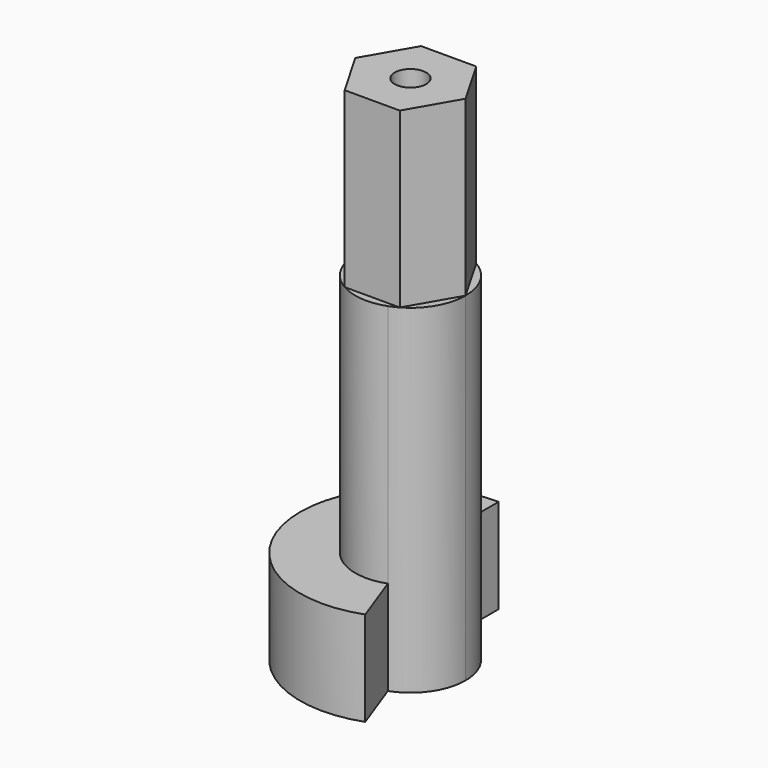
from build123d import *

# Parameters (mm, degrees)
F1_DEPTH = 12
F2_DEPTH = 43
F4_DEPTH = 22
F5_R     = 2
F6_DEPTH = 15
F7_DEPTH = 15


with BuildPart() as f1:
    # F0 (on Top) → F1 (new body)
    with BuildSketch(Plane.XY):
        with BuildLine():
            ThreePointArc((2.394141, -6.577848), (5.734064, -4.015035), (7, 0))
            ThreePointArc((7, 0), (4.949747, 4.949747), (0, 7))
            Line((0, 7), (0, 5.6))
            ThreePointArc((0, 5.6), (3.959798, 3.959798), (5.6, 0))
            ThreePointArc((5.6, 0), (4.587251, -3.212028), (1.915313, -5.262279))
            Line((1.915313, -5.262279), (2.394141, -6.577848))
        make_face()
        with BuildLine():
            ThreePointArc((2.394141, -6.577848), (-6.893654, -1.215537), (0, 7))
            Line((0, 7), (0, 14))
            ThreePointArc((0, 14), (-13.787309, -2.431074), (4.788282, -13.155697))
            Line((4.788282, -13.155697), (2.394141, -6.577848))
        make_face()
    extrude(amount=F1_DEPTH)

    # F0 (on Top) → F2 (join)
    with BuildSketch(Plane.XY):
        with BuildLine():
            Line((0, 0), (0, 5.6))
            ThreePointArc((0, 5.6), (-5.514923, -0.97243), (1.915313, -5.262279))
            Line((1.915313, -5.262279), (0, 0))
        make_face()
        with BuildLine():
            ThreePointArc((5.6, 0), (3.959798, 3.959798), (0, 5.6))
            Line((0, 5.6), (0, 0))
            Line((0, 0), (1.915313, -5.262279))
            ThreePointArc((1.915313, -5.262279), (4.587251, -3.212028), (5.6, 0))
        make_face()
        with BuildLine():
            Line((0, 5.6), (0, 7))
            ThreePointArc((0, 7), (-6.893654, -1.215537), (2.394141, -6.577848))
            Line((2.394141, -6.577848), (1.915313, -5.262279))
            ThreePointArc((1.915313, -5.262279), (-5.514923, -0.97243), (0, 5.6))
        make_face()
        with BuildLine():
            ThreePointArc((2.394141, -6.577848), (5.734064, -4.015035), (7, 0))
            ThreePointArc((7, 0), (4.949747, 4.949747), (0, 7))
            Line((0, 7), (0, 5.6))
            ThreePointArc((0, 5.6), (3.959798, 3.959798), (5.6, 0))
            ThreePointArc((5.6, 0), (4.587251, -3.212028), (1.915313, -5.262279))
            Line((1.915313, -5.262279), (2.394141, -6.577848))
        make_face()
    extrude(amount=F2_DEPTH)

    # F3 (on face) → F4 (join)
    with BuildSketch(Plane.XY.offset(43)):
        Polygon((7, 0), (3.5, 6.062178), (-3.5, 6.062178), (-7, 0), (-3.5, -6.062178), (3.5, -6.062178), align=None)
    extrude(amount=F4_DEPTH)

    # F5 (on face) → F6 (cut)
    with BuildSketch(Plane.XY.offset(65)):
        Circle(F5_R)
    extrude(amount=-F6_DEPTH, mode=Mode.SUBTRACT)

    # F0 (on Top) → F7 (cut)
    with BuildSketch(Plane.XY):
        with BuildLine():
            Line((0, 0), (0, 5.6))
            ThreePointArc((0, 5.6), (-5.514923, -0.97243), (1.915313, -5.262279))
            Line((1.915313, -5.262279), (0, 0))
        make_face()
        with BuildLine():
            ThreePointArc((5.6, 0), (3.959798, 3.959798), (0, 5.6))
            Line((0, 5.6), (0, 0))
            Line((0, 0), (1.915313, -5.262279))
            ThreePointArc((1.915313, -5.262279), (4.587251, -3.212028), (5.6, 0))
        make_face()
    extrude(amount=F7_DEPTH, mode=Mode.SUBTRACT)


solid = f1.part
